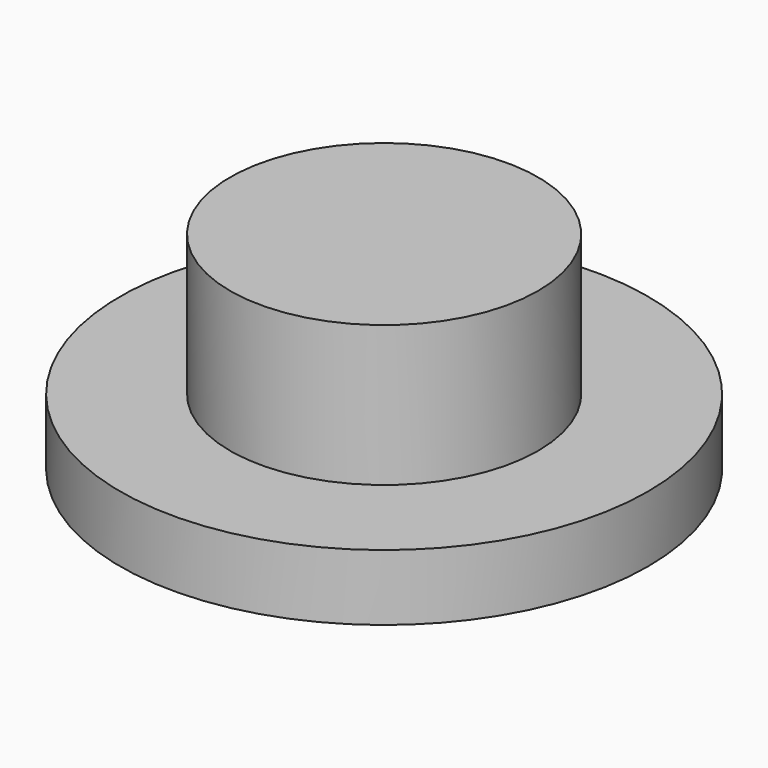
from build123d import *

# Parameters (mm, degrees)
F0_R     = 60
F1_DEPTH = 15
F2_R     = 35
F3_DEPTH = 32
F4_R     = 36
F5_DEPTH = 7
F6_R     = 27.5
F7_DEPTH = 22


with BuildPart() as f1:
    # F0 (on Top) → F1 (new body)
    with BuildSketch(Plane.XY):
        Circle(F0_R)
    extrude(amount=-F1_DEPTH)

    # F2 (on face) → F3 (join)
    with BuildSketch(Plane.XY):
        Circle(F2_R)
    extrude(amount=F3_DEPTH)

    # F4 (on face) → F5 (join)
    with BuildSketch(Plane(origin=(0, 0, -15), x_dir=(1, 0, 0), z_dir=(0, 0, -1))):
        Circle(F4_R)
    extrude(amount=F5_DEPTH)

    # F6 (on face) → F7 (cut)
    with BuildSketch(Plane(origin=(0, 0, -22), x_dir=(1, 0, 0), z_dir=(0, 0, -1))):
        Circle(F6_R)
    extrude(amount=-F7_DEPTH, mode=Mode.SUBTRACT)


solid = f1.part
